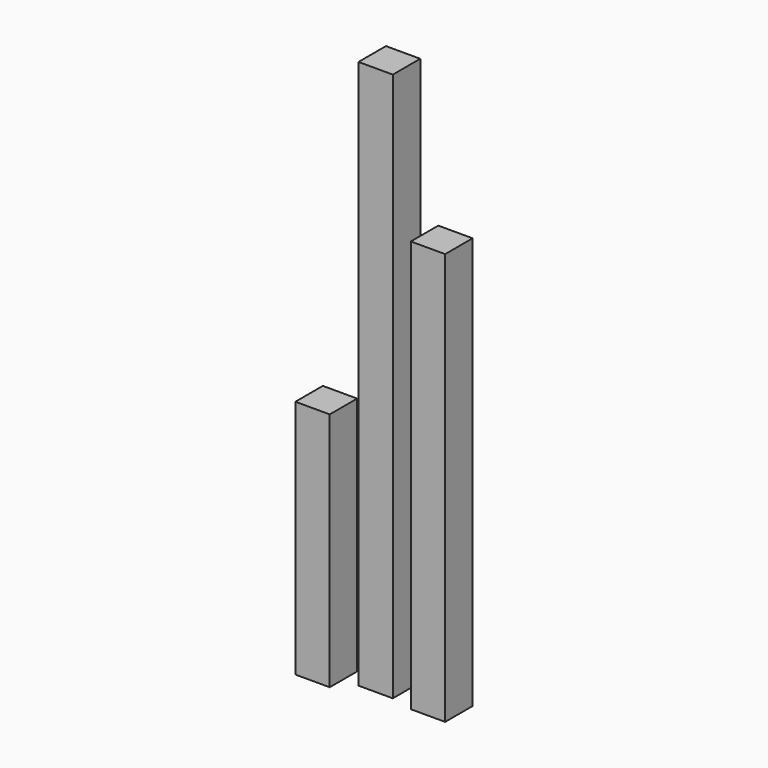
from build123d import *

# Parameters (mm, degrees)
F0_W     = 100
F0_H     = 100
F1_DEPTH = 700
F2_DEPTH = 1600
F3_DEPTH = 1200


with BuildPart() as f1:
    # F0 (on Top) → F1 (new body)
    with BuildSketch(Plane.XY):
        with Locations((-234.446402, 192.911209)):
            Rectangle(F0_W, F0_H)
    extrude(amount=F1_DEPTH)


with BuildPart() as f2:
    # F0 (on Top) → F2 (new body)
    with BuildSketch(Plane.XY):
        with Locations((-88.301169, 240.036038)):
            Rectangle(F0_W, F0_H)
    extrude(amount=F2_DEPTH)


with BuildPart() as f3:
    # F0 (on Top) → F3 (new body)
    with BuildSketch(Plane.XY):
        with Locations((77.285348, 223.684713)):
            Rectangle(F0_W, F0_H)
    extrude(amount=F3_DEPTH)


solid = Compound([f1.part, f2.part, f3.part])
